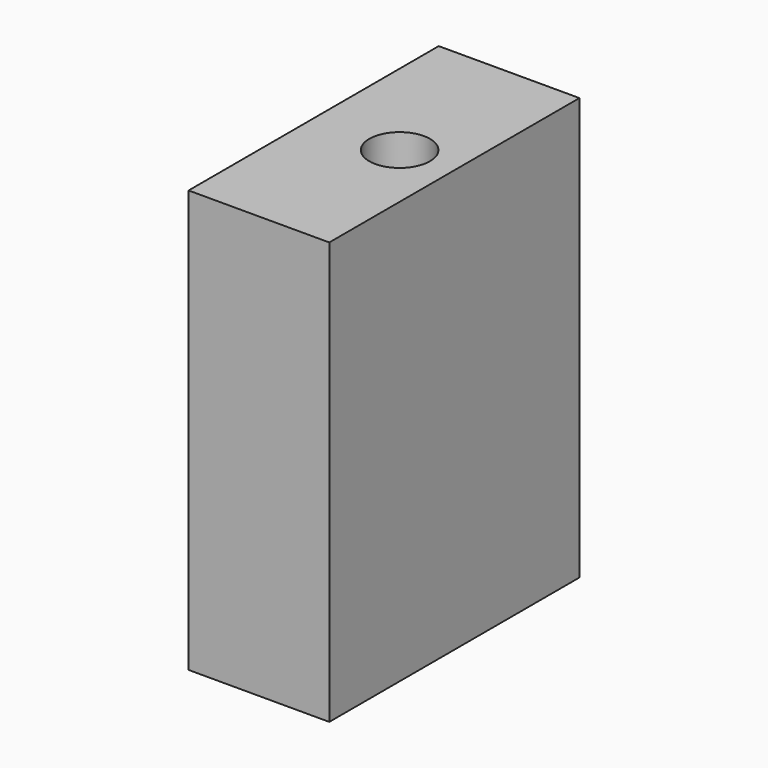
from build123d import *

# Parameters (mm, degrees)
CYLINDER002002001001001001001001007_R     = 0.97
CYLINDER002002001001001001001001007_DEPTH = 5
BOX006001_W                               = 4.5
BOX006001_H                               = 10
BOX006001_DEPTH                           = 13.5


with BuildPart() as cylinder002002001001001001001001007:
    # Cylinder002002001001001001001001007 → Cylinder002002001001001001001001007 (new body)
    with BuildSketch(Plane(origin=(116.75, 12.8, 13.5), x_dir=(1, 0, 0), z_dir=(0, 0, 1))):
        Circle(CYLINDER002002001001001001001001007_R)
    extrude(amount=CYLINDER002002001001001001001001007_DEPTH)


with BuildPart() as cut013003022:
    # Box006001 → Box006001 (new body)
    with BuildSketch(Plane(origin=(114, 7.8, 5), x_dir=(1, 0, 0), z_dir=(0, 0, 1))):
        with Locations((2.25, 5)):
            Rectangle(BOX006001_W, BOX006001_H)
    extrude(amount=BOX006001_DEPTH)

    # Cut013003022: cut Cylinder002002001001001001001001007
    add(cylinder002002001001001001001001007.part, mode=Mode.SUBTRACT)


solid = cut013003022.part
